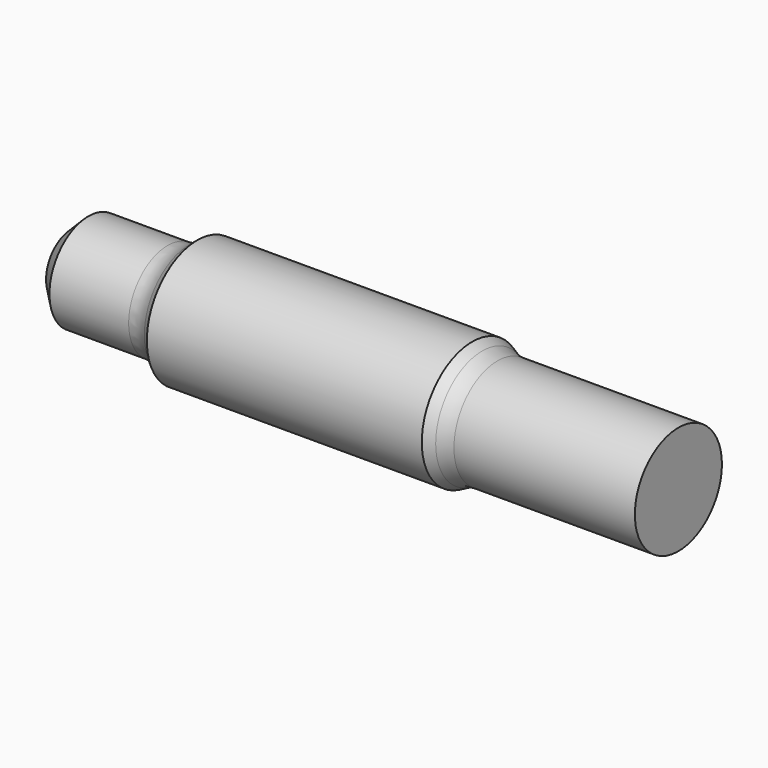
from build123d import *

# Parameters (mm, degrees)
F2_SIZE = 3
F3_R    = 6


with BuildPart() as f1:
    # F0 (on Top) → F1 (revolve)
    with BuildSketch(Plane.XY):
        Polygon((-106, 0), (0, 0), (0, 9.5), (-33, 9.5), (-36, 11), (-84, 11), (-87, 8.5), (-106, 8.5), align=None)
    revolve(axis=Axis((-53, 0, 0), (1, 0, 0)))

    # F2
    f2_edges = [f1.edges().sort_by_distance(p)[0] for p in [
        (-106, -8.5, 0),
    ]]
    chamfer(f2_edges, length=F2_SIZE)

    # F3
    f3_edges = [f1.edges().sort_by_distance(p)[0] for p in [
        (-87, -8.5, 0),
        (-33, -9.5, 0),
    ]]
    fillet(f3_edges, radius=F3_R)


solid = f1.part
